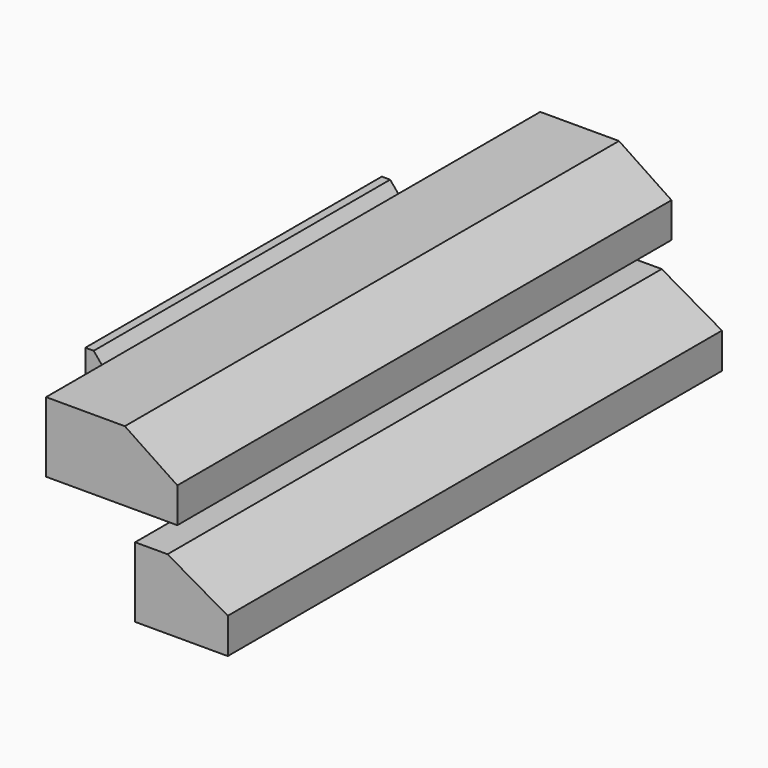
from build123d import *

# Parameters (mm, degrees)
F1_DEPTH = 254
F3_DEPTH = 254
F4_W     = 28.829
F4_H     = 50.9118726689
F5_DEPTH = 152.4
F6_SIZE2 = 30.48
F6_SIZE  = 25.4


with BuildPart() as f1:
    # F0 (on Front) → F1 (new body)
    with BuildSketch(Plane.XZ):
        Polygon((0, 28.829), (0, 0), (38.1, 0), (38.1, 14.605), (13.335, 28.829), align=None)
    extrude(amount=F1_DEPTH)


with BuildPart() as f3:
    # F2 (on Front) → F3 (new body)
    with BuildSketch(Plane.XZ):
        Polygon((-4.2308812982, 69.4709341247), (-36.6158812982, 69.4709341247), (-36.6158812982, 40.6419341247), (17.3591187018, 40.6419341247), (17.3591187018, 55.0564341247), align=None)
    extrude(amount=F3_DEPTH)


with BuildPart() as f5:
    # F4 (on Front) → F5 (new body)
    with BuildSketch(Plane.XZ):
        with Locations((-87.3358398676, -0.5832361057)):
            Rectangle(F4_W, F4_H)
    extrude(amount=F5_DEPTH)

    # F6
    f6_edges = [f5.edges().sort_by_distance(p)[0] for p in [
        (-72.92134, -76.2, 24.8727),
    ]]
    f6_side = f5.faces().sort_by_distance((-87.33584, -76.2, 24.8727))[0]
    chamfer(f6_edges, length=F6_SIZE, length2=F6_SIZE2, reference=f6_side)


solid = Compound([f1.part, f3.part, f5.part])
